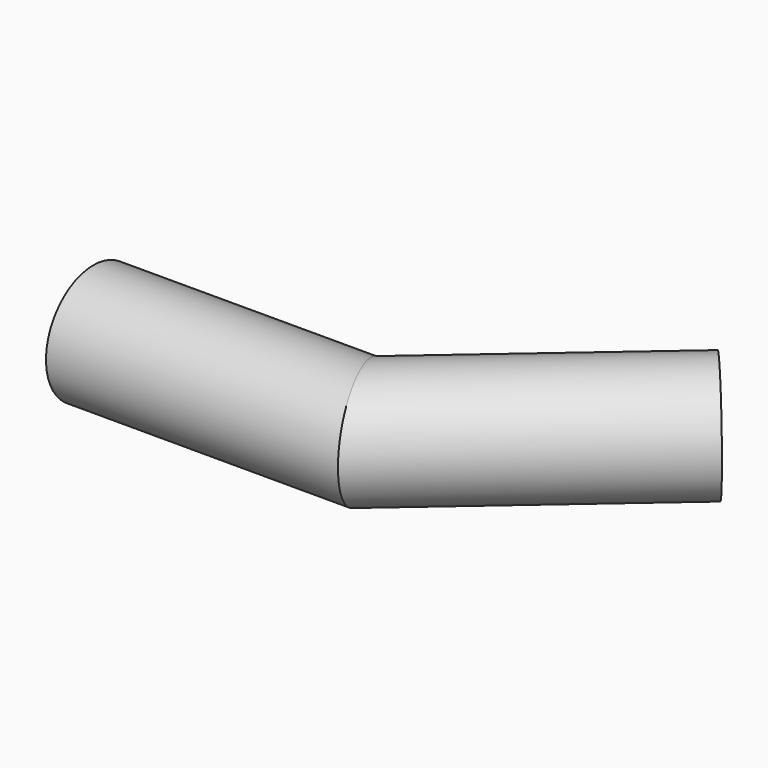
from build123d import *

# Parameters (mm, degrees)
F1_R = 25


with BuildPart() as f2:
    # F2: sweep along a path in F0
    with BuildLine(Plane.XY) as f2_path:
        Line((0, 0), (114.02194947, 0))
        Line((114.02194947, 0), (202.8620094061, 76.7901688814))
    # F1 (on Right) → F2 (sweep)
    with BuildSketch(Plane.YZ):
        Circle(F1_R)
    sweep(path=f2_path.line, transition=Transition.RIGHT)


solid = f2.part
